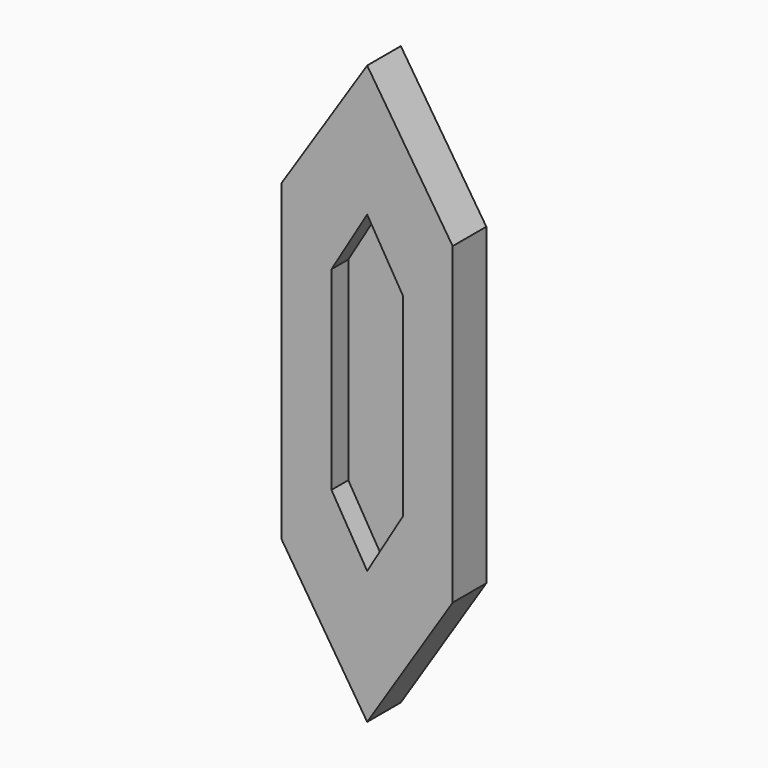
from build123d import *

# Parameters (mm, degrees)
F1_DEPTH = 7.62
F2_DEPTH = 3.81


with BuildPart() as f1:
    # F0 (on Front) → F1 (new body)
    with BuildSketch(Plane.XZ):
        Polygon((0, 52.1869771183), (-15.4906585813, 28.4246038646), (-15.4906585813, 0), (-6.466973573, 0), (-6.466973573, 17.5961833447), (0, 28.4246038646), (6.466973573, 17.5961833447), (6.466973573, 0), (15.4906585813, 0), (15.4906585813, 28.4246038646), align=None)
        Polygon((-6.466973573, 0), (-15.4906585813, 0), (-15.4906585813, -28.4246038646), (0, -52.4877645075), (15.4906585813, -28.4246038646), (15.4906585813, 0), (6.466973573, 0), (6.466973573, -17.5961833447), (0, -28.4246038646), (-6.466973573, -17.5961833447), align=None)
    extrude(amount=F1_DEPTH)


with BuildPart() as f2:
    # F0 (on Front) → F2 (new body)
    with BuildSketch(Plane.XZ):
        Polygon((-6.466973573, 17.5961833447), (-6.466973573, 0), (6.466973573, 0), (6.466973573, 17.5961833447), (0, 28.4246038646), align=None)
        Polygon((6.466973573, 0), (-6.466973573, 0), (-6.466973573, -17.5961833447), (0, -28.4246038646), (6.466973573, -17.5961833447), align=None)
    extrude(amount=F2_DEPTH)


solid = Compound([f1.part, f2.part])
